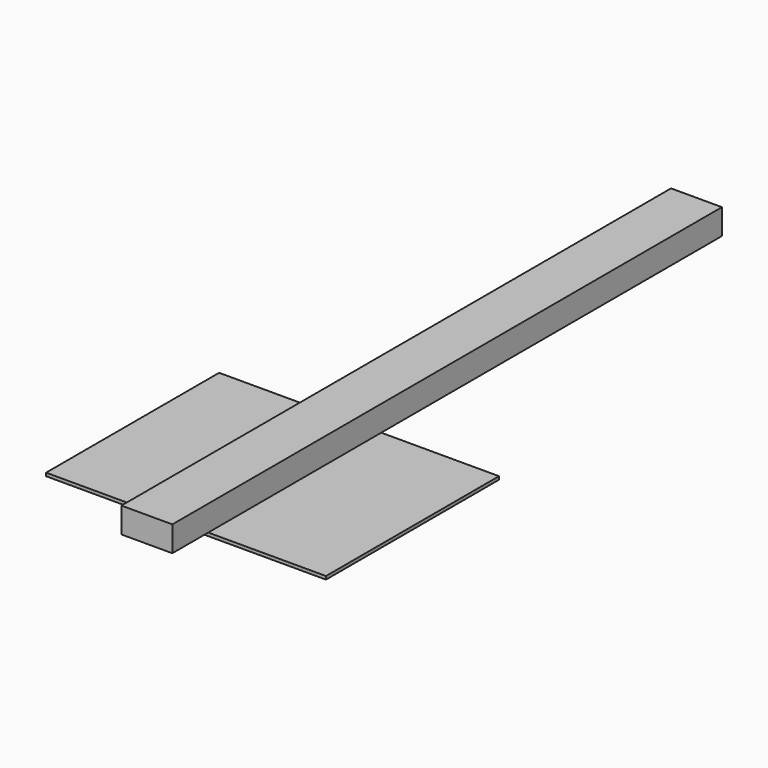
from build123d import *

# Parameters (mm, degrees)
F0_W     = 101.6
F0_H     = 50.8
F1_DEPTH = 1371.6
F2_R     = 16.7386
F3_DEPTH = 25.4
F4_W     = 558.8
F4_H     = 431.8
F5_DEPTH = 6.35


with BuildPart() as f1:
    # F0 (on Front) → F1 (new body)
    with BuildSketch(Plane.XZ):
        with Locations((-10.707563, 0.777875)):
            Rectangle(F0_W, F0_H)
    extrude(amount=F1_DEPTH)

    # F2 (on face) → F3 (cut)
    with BuildSketch(Plane(origin=(0, 0, -24.622125), x_dir=(1, 0, 0), z_dir=(0, 0, -1))):
        with Locations((-10.770437, 623.300626)):
            Circle(F2_R)
    extrude(amount=-F3_DEPTH, mode=Mode.SUBTRACT)

    # F4 (on face) → F5 (join)
    with BuildSketch(Plane(origin=(0, 0, -24.622125), x_dir=(1, 0, 0), z_dir=(0, 0, -1))):
        with Locations((-4.258305, 1066.069934)):
            Rectangle(F4_W, F4_H)
    extrude(amount=F5_DEPTH)


solid = f1.part
